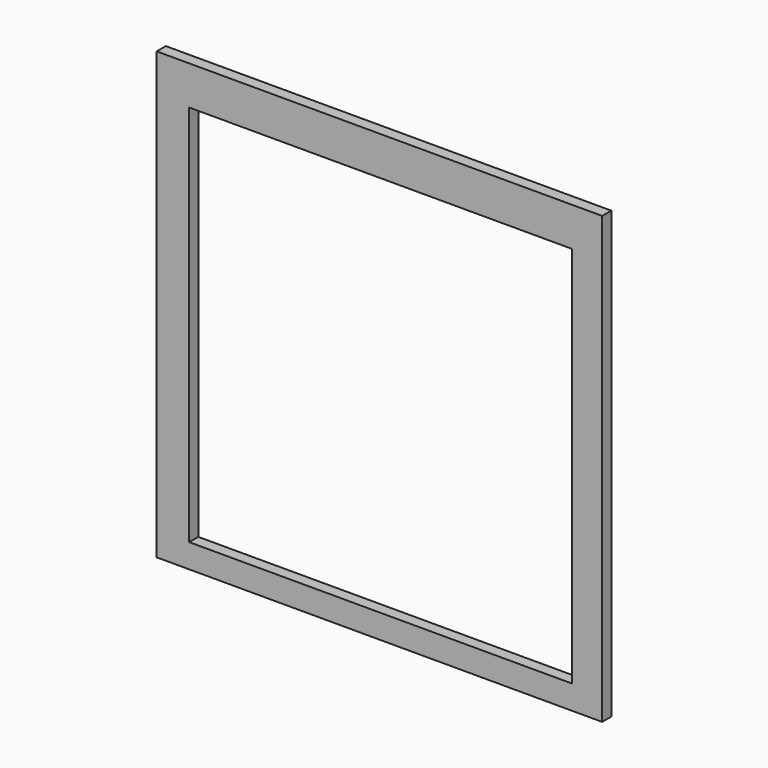
from build123d import *

# Parameters (mm, degrees)
F0_W     = 156
F0_H     = 156
F1_DEPTH = 4
F2_W     = 134
F2_H     = 134
F3_DEPTH = 4


with BuildPart() as f1:
    # F0 (on Front) → F1 (new body)
    with BuildSketch(Plane.XZ):
        with Locations((-0.379207, 2.60339)):
            Rectangle(F0_W, F0_H)
    extrude(amount=F1_DEPTH)

    # F2 (on face) → F3 (cut)
    with BuildSketch(Plane.XZ.offset(4)):
        Rectangle(F2_W, F2_H)
    extrude(amount=-F3_DEPTH, mode=Mode.SUBTRACT)


solid = f1.part
